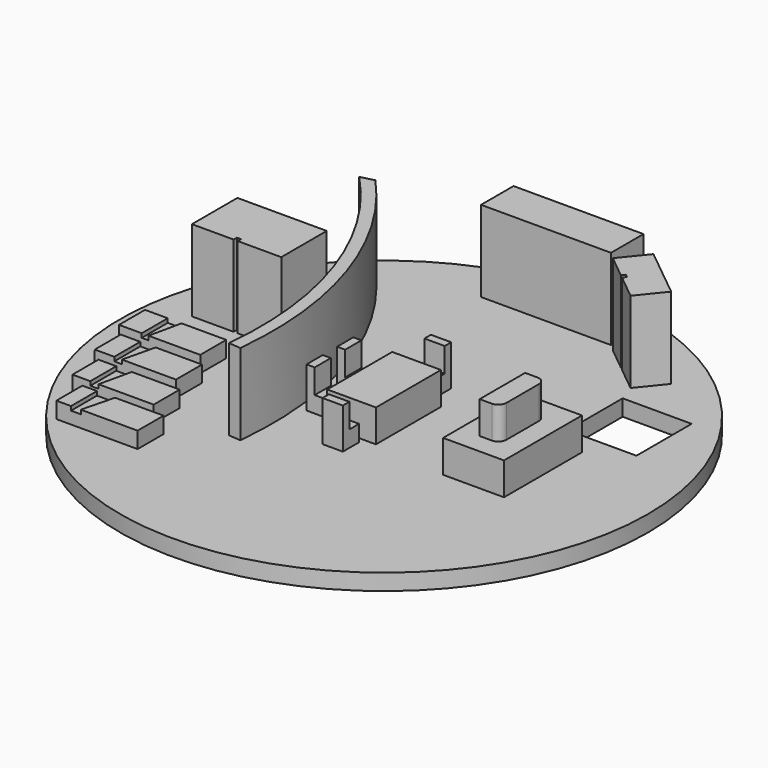
from build123d import *

# Parameters (mm, degrees)
F0_R      = 32.5
F1_DEPTH  = 2
F2_W      = 16
F2_H      = 5
F3_DEPTH  = 10
F4_W      = 6
F4_H      = 10
F4_W_2    = 7.5
F4_H_2    = 12
F5_DEPTH  = 4
F6_W      = 2.5
F6_H      = 7
F7_DEPTH  = 4
F8_R      = 1
F9_W      = 2.5
F9_H      = 2.5
F10_DEPTH = 2
F11_W     = 2.5
F11_H     = 1
F11_W_2   = 1
F11_H_2   = 2.5
F12_DEPTH = 3
F13_W     = 8.5
F13_H     = 8.5
F14_DEPTH = 25
F15_W     = 10
F15_H     = 4
F16_DEPTH = 1.5
F17_W     = 2.795801
F17_H     = 4
F17_W_2   = 2.404703
F17_W_3   = 2.193978
F17_W_4   = 1.803281
F18_DEPTH = 0.5


with BuildPart() as f1:
    # F0 (on Top) → F1 (new body)
    with BuildSketch(Plane.XY):
        Circle(F0_R)
    extrude(amount=F1_DEPTH)

    # F2 (on face) → F3 (join)
    with BuildSketch(Plane.XY.offset(2)):
        with Locations((-0.270834, 27.762719)):
            Rectangle(F2_W, F2_H)
        Polygon((17.300418, 22.562942), (11.08706, 27.602206), (8.567428, 24.495527), (11.384874, 22.210474), (11.699828, 22.598809), (12.088162, 22.283855), (11.773208, 21.89552), (14.780786, 19.456263), align=None)
        Polygon((-16.460359, 11.750014), (-27.460359, 11.750014), (-27.460359, 4.750014), (-22.328375, 4.750014), (-22.328375, 5.250014), (-21.828375, 5.250014), (-21.828375, 4.750014), (-16.460359, 4.750014), align=None)
        with BuildLine():
            Line((-9.214541, -12.358905), (-7.719307, -12.482575))
            ThreePointArc((-7.719307, -12.482575), (-9.766223, 6.462552), (-19.395168, 22.906126))
            Line((-19.395168, 22.906126), (-21.053303, 22.485526))
            ThreePointArc((-21.053303, 22.485526), (-11.314103, 6.361134), (-9.214541, -12.358905))
        make_face()
    extrude(amount=F3_DEPTH)

    # F4 (on face) → F5 (join)
    with BuildSketch(Plane.XY.offset(2)):
        Rectangle(F4_W, F4_H)
        with Locations((15.75, 0.081453)):
            Rectangle(F4_W_2, F4_H_2)
    extrude(amount=F5_DEPTH)

    # F6 (on face) → F7 (join)
    with BuildSketch(Plane.XY.offset(6)):
        with Locations((15.75, 0.081453)):
            Rectangle(F6_W, F6_H)
    extrude(amount=F7_DEPTH)

    # F8
    f8_edges = [f1.edges().sort_by_distance(p)[0] for p in [
        (17, -3.418547, 8),
        (17, 3.581453, 8),
    ]]
    fillet(f8_edges, radius=F8_R)

    # F9 (on face) → F10 (join)
    with BuildSketch(Plane.XY.offset(2)):
        with Locations((-5.362472, -2.423183)):
            Rectangle(F9_W, F9_H)
        with Locations((-5.374835, 2.296795)):
            Rectangle(F9_W, F9_H)
        with Locations((0.118701, 7.372063)):
            Rectangle(F9_W, F9_H)
        with Locations((0.21179, -6.925349)):
            Rectangle(F9_W, F9_H)
    extrude(amount=F10_DEPTH)

    # F11 (on face) → F12 (join)
    with BuildSketch(Plane.XY.offset(4)):
        with Locations((0.21179, -7.675349)):
            Rectangle(F11_W, F11_H)
        with Locations((-6.124835, 2.296795)):
            Rectangle(F11_W_2, F11_H_2)
        with Locations((-6.112472, -2.423183)):
            Rectangle(F11_W_2, F11_H_2)
        with Locations((0.118701, 8.122063)):
            Rectangle(F11_W, F11_H)
    extrude(amount=F12_DEPTH)

    # F13 (on face) → F14 (cut)
    with BuildSketch(Plane.XY.offset(2)):
        with Locations((19.782292, 13.050183)):
            Rectangle(F13_W, F13_H)
    extrude(amount=-F14_DEPTH, mode=Mode.SUBTRACT)

    # F15 (on face) → F16 (join)
    with BuildSketch(Plane.XY.offset(2)):
        with Locations((-24.43407, -2)):
            Rectangle(F15_W, F15_H)
        with Locations((-23.044675, -7.475554)):
            Rectangle(F15_W, F15_H)
        with Locations((-21.457909, -12.888055)):
            Rectangle(F15_W, F15_H)
        with Locations((-19.281841, -18.088401)):
            Rectangle(F15_W, F15_H)
    extrude(amount=F16_DEPTH)

    # F17 (on face) → F18 (join)
    with BuildSketch(Plane.XY.offset(3.5)):
        with Locations((-28.036169, -2)):
            Rectangle(F17_W, F17_H)
        Polygon((-24.931015, 0), (-25.812697, -4), (-19.43407, -4), (-19.43407, 0), align=None)
        with Locations((-26.842323, -7.475554)):
            Rectangle(F17_W_2, F17_H)
        Polygon((-23.740886, -5.475554), (-24.701254, -9.475554), (-18.044675, -9.475554), (-18.044675, -5.475554), align=None)
        with Locations((-25.36092, -12.888055)):
            Rectangle(F17_W_3, F17_H)
        Polygon((-22.352759, -10.888055), (-23.25128, -14.888055), (-16.457909, -14.888055), (-16.457909, -10.888055), align=None)
        with Locations((-23.380201, -18.088401)):
            Rectangle(F17_W_4, F17_H)
        Polygon((-14.281841, -16.088401), (-20.255804, -16.088401), (-21.277487, -20.088401), (-14.281841, -20.088401), align=None)
    extrude(amount=F18_DEPTH)


solid = f1.part
